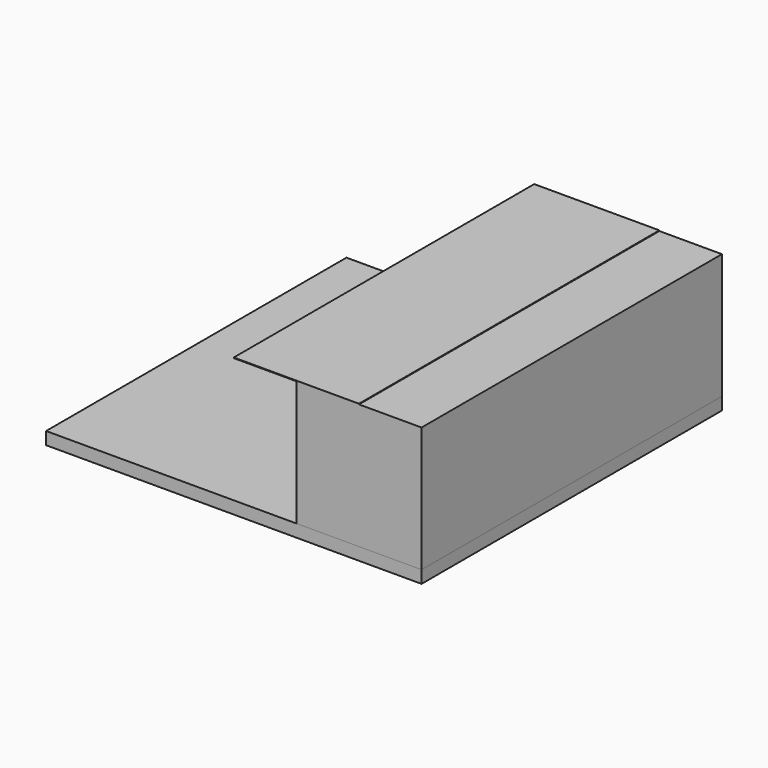
from build123d import *

# Parameters (mm, degrees)
BOX_W        = 10
BOX_H        = 30
BOX_DEPTH    = 0.05
BOX001_W     = 10
BOX001_H     = 30
BOX001_DEPTH = 10
BOX002_W     = 30
BOX002_H     = 30
BOX002_DEPTH = 1


with BuildPart() as cubo:
    # Box → Box (new body)
    with BuildSketch(Plane(origin=(-5, 0, 10), x_dir=(1, 0, 0), z_dir=(0, 0, 1))):
        with Locations((5, 15)):
            Rectangle(BOX_W, BOX_H)
    extrude(amount=BOX_DEPTH)


with BuildPart() as cubo001:
    # Box001 → Box001 (new body)
    with BuildSketch(Plane.XY):
        with Locations((5, 15)):
            Rectangle(BOX001_W, BOX001_H)
    extrude(amount=BOX001_DEPTH)


with BuildPart() as cubo002:
    # Box002 → Box002 (new body)
    with BuildSketch(Plane(origin=(-20, 0, -1), x_dir=(1, 0, 0), z_dir=(0, 0, 1))):
        with Locations((15, 15)):
            Rectangle(BOX002_W, BOX002_H)
    extrude(amount=BOX002_DEPTH)


solid = Compound([cubo.part, cubo001.part, cubo002.part])
